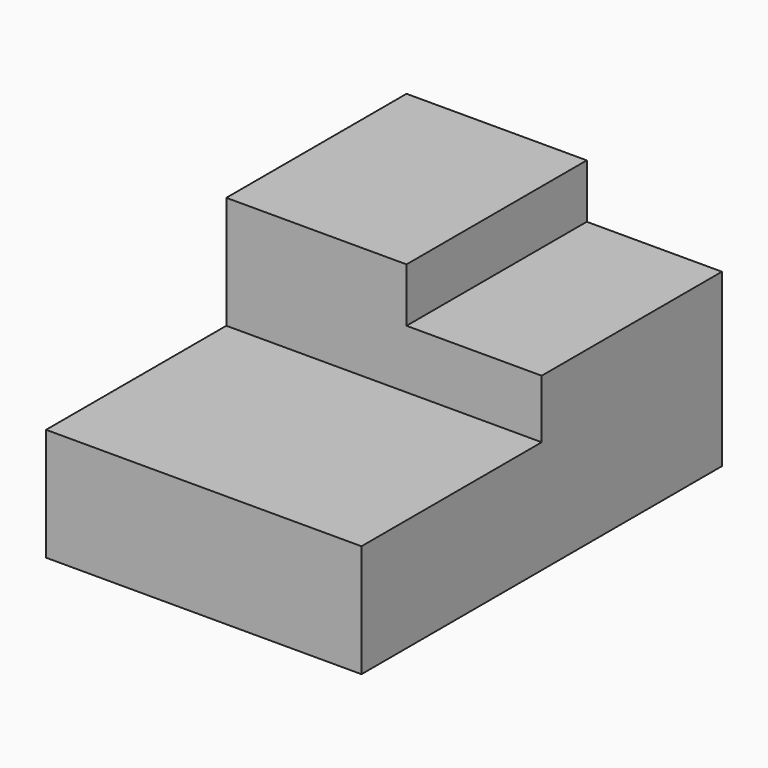
from build123d import *

# Parameters (mm, degrees)
F1_DEPTH = 2540
F0_W     = 762
F0_H     = 330.2
F2_DEPTH = 1270


with BuildPart() as f1:
    # F0 (on Front) → F1 (new body)
    with BuildSketch(Plane.XZ):
        Polygon((-135.383487, 562.263632), (-135.383487, -72.736368), (1642.616513, -72.736368), (1642.616513, 562.263632), (880.616513, 562.263632), align=None)
    extrude(amount=F1_DEPTH)

    # F0 (on Front) → F2 (join)
    with BuildSketch(Plane.XZ):
        Polygon((-135.383487, 1197.263632), (-135.383487, 562.263632), (880.616513, 562.263632), (880.616513, 892.463632), (880.616513, 1197.263632), align=None)
        with Locations((1261.616513, 727.363632)):
            Rectangle(F0_W, F0_H)
    extrude(amount=F2_DEPTH)


solid = f1.part
